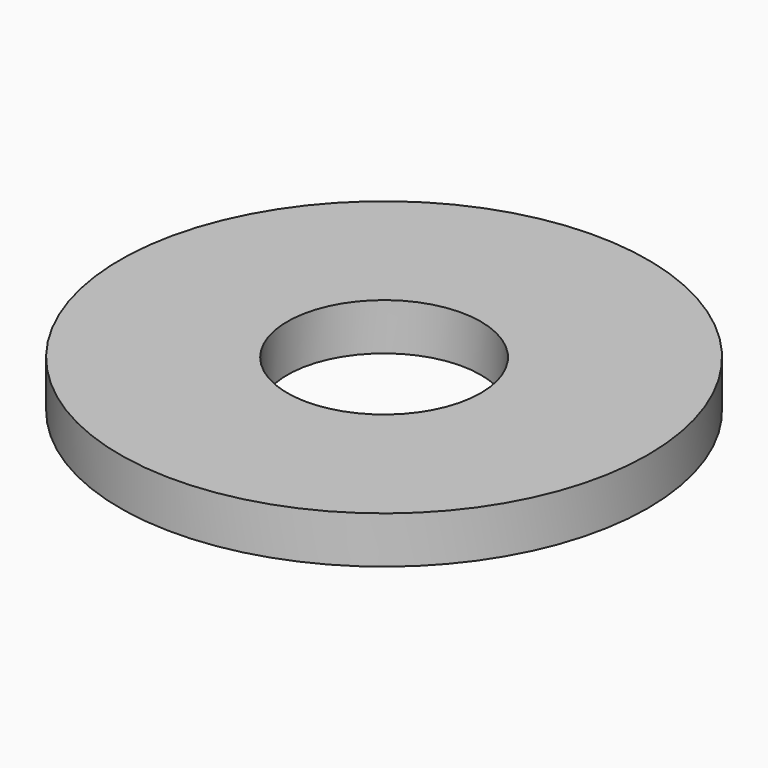
from build123d import *

# Parameters (mm, degrees)
SKETCH_R   = 4.5
SKETCH_R_2 = 1.65
PAD_DEPTH  = 0.8


with BuildPart() as part:
    # Sketch → Pad (new body)
    with BuildSketch(Plane.XY):
        Circle(SKETCH_R)
        Circle(SKETCH_R_2, mode=Mode.SUBTRACT)
    extrude(amount=PAD_DEPTH)


solid = part.part
